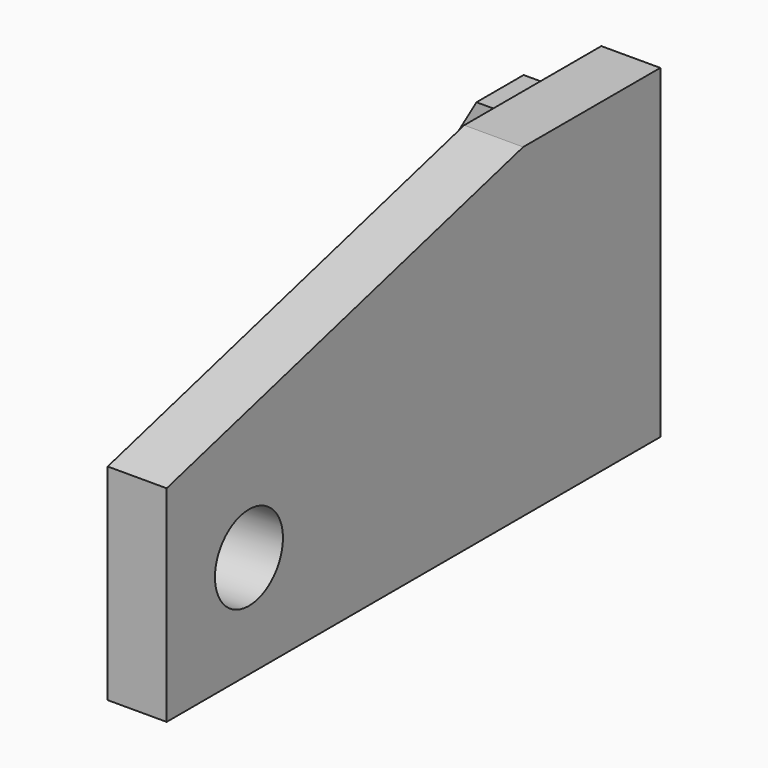
from build123d import *

# Parameters (mm, degrees)
F1_DEPTH = 10.922
F2_DEPTH = 60.198
F0_W     = 33.528
F0_H     = 10.922
F3_DEPTH = 50.8
F4_SIZE2 = 19.1346666667
F4_SIZE  = 33.1422148526
F5_SIZE2 = 82.55
F5_SIZE  = 22.098
F7_D     = 15.748


with BuildPart() as f1:
    # F0 (on Top) → F1 (new body)
    with BuildSketch(Plane.XY):
        Polygon((12.8128434818, 21.6976343439), (-20.7151565182, 21.6976343439), (12.8128434818, -30.8803656561), align=None)
    extrude(amount=F1_DEPTH)

    # F0 (on Top) → F2 (join)
    with BuildSketch(Plane.XY):
        Polygon((12.8128434818, 32.6196343439), (12.8128434818, 21.6976343439), (12.8128434818, -30.8803656561), (12.8128434818, -81.6803656561), (23.7348434818, -81.6803656561), (23.7348434818, 32.6196343439), align=None)
    extrude(amount=F2_DEPTH)

    # F0 (on Top) → F3 (join)
    with BuildSketch(Plane.XY):
        with Locations((-3.9511565182, 27.1586343439)):
            Rectangle(F0_W, F0_H)
    extrude(amount=F3_DEPTH)

    # F4
    f4_edges = [f1.edges().sort_by_distance(p)[0] for p in [
        (-20.715157, 27.158634, 50.8),
    ]]
    f4_side = f1.faces().sort_by_distance((-20.715157, 27.158634, 25.4))[0]
    chamfer(f4_edges, length=F4_SIZE, length2=F4_SIZE2, reference=f4_side)

    # F5
    f5_edges = [f1.edges().sort_by_distance(p)[0] for p in [
        (18.273843, -81.680366, 60.198),
    ]]
    f5_side = f1.faces().sort_by_distance((18.273843, -81.680366, 30.099))[0]
    chamfer(f5_edges, length=F5_SIZE, length2=F5_SIZE2, reference=f5_side)

    # F7 (through all)
    with Locations(Plane(origin=(12.8128434818, 0, 0), x_dir=(0, -1, 0), z_dir=(-1, 0, 0))):
        with Locations((62.6303656561, 19.05)):
            Hole(F7_D / 2)


solid = f1.part
